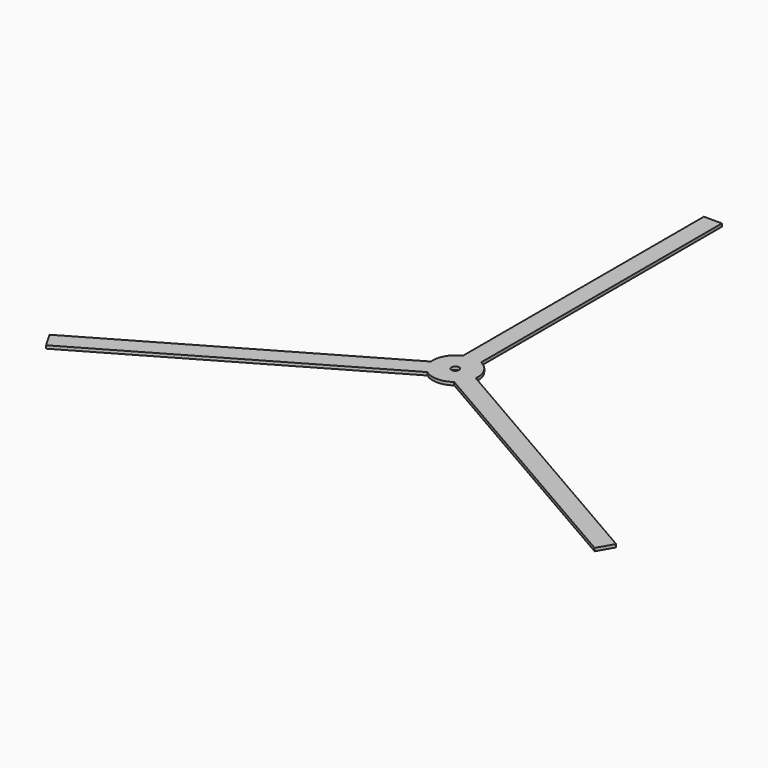
from build123d import *

# Parameters (mm, degrees)
F1_DEPTH = 2
F2_R     = 2.5
F3_DEPTH = 25


with BuildPart() as f1:
    # F0 (on Top) → F1 (new body)
    with BuildSketch(Plane.XY):
        with BuildLine():
            ThreePointArc((14.905881, -1.677711), (14.976452, -0.840175), (15, 0))
            ThreePointArc((15, 0), (12.5499, 8.215838), (6, 13.747727))
            ThreePointArc((6, 13.747727), (0, 15), (-6, 13.747727))
            ThreePointArc((-6, 13.747727), (-12.990381, 7.5), (-14.905881, -1.677711))
            ThreePointArc((-14.905881, -1.677711), (-12.990381, -7.5), (-8.905881, -12.070016))
            ThreePointArc((-8.905881, -12.070016), (0, -15), (8.905881, -12.070016))
            ThreePointArc((8.905881, -12.070016), (12.990381, -7.5), (14.905881, -1.677711))
        make_face()
        with BuildLine():
            ThreePointArc((-8.905881, -12.070016), (-12.990381, -7.5), (-14.905881, -1.677711))
            Line((-14.905881, -1.677711), (-188.110962, -101.677711))
            Line((-188.110962, -101.677711), (-185.110962, -106.873864))
            Line((-185.110962, -106.873864), (-182.110962, -112.070016))
            Line((-182.110962, -112.070016), (-8.905881, -12.070016))
        make_face()
        with BuildLine():
            ThreePointArc((-6, 13.747727), (0, 15), (6, 13.747727))
            Line((6, 13.747727), (6, 213.747727))
            Line((6, 213.747727), (0, 213.747727))
            Line((0, 213.747727), (-6, 213.747727))
            Line((-6, 213.747727), (-6, 13.747727))
        make_face()
        with BuildLine():
            Line((188.110962, -101.677711), (14.905881, -1.677711))
            ThreePointArc((14.905881, -1.677711), (12.990381, -7.5), (8.905881, -12.070016))
            Line((8.905881, -12.070016), (182.110962, -112.070016))
            Line((182.110962, -112.070016), (185.110962, -106.873864))
            Line((185.110962, -106.873864), (188.110962, -101.677711))
        make_face()
    extrude(amount=F1_DEPTH)

    # F2 (on face) → F3 (cut)
    with BuildSketch(Plane.XY.offset(2)):
        Circle(F2_R)
    extrude(amount=-F3_DEPTH, mode=Mode.SUBTRACT)


solid = f1.part
